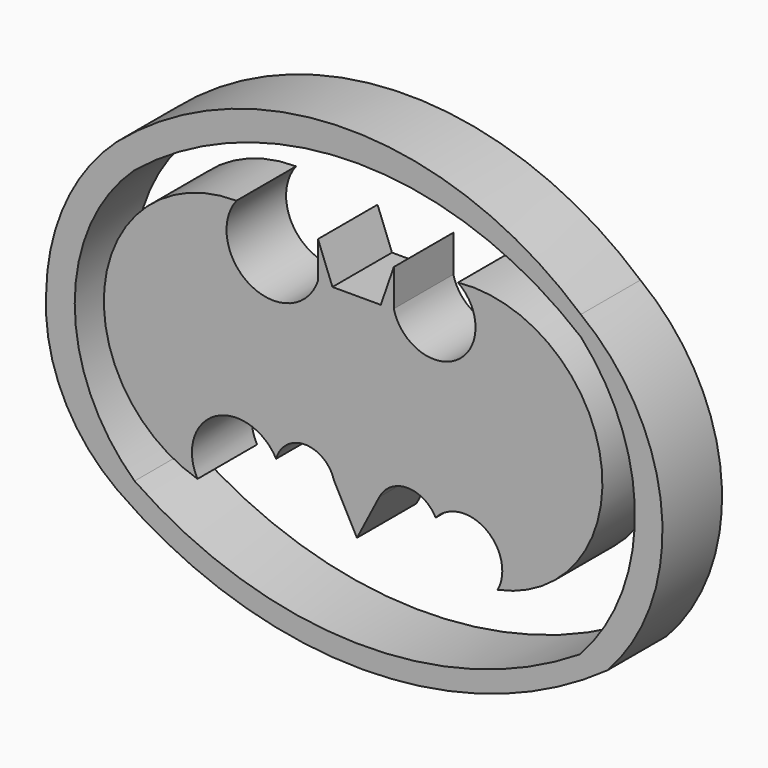
from build123d import *

# Parameters (mm, degrees)
F1_DEPTH = 25.4


with BuildPart() as f1:
    # F0 (on Front) → F1 (new body)
    with BuildSketch(Plane.XZ):
        with BuildLine():
            ThreePointArc((76.366656, 66.326715), (-2.771333, 96.122792), (-82.018934, 66.619486))
            ThreePointArc((-82.018934, 66.619486), (-99.526069, 42.537665), (-106.025629, 13.482723))
            ThreePointArc((-106.025629, 13.482723), (-100.55177, -15.129278), (-82.018934, -37.604682))
            ThreePointArc((-82.018934, -37.604682), (1.711711, -64.50179), (85.442357, -37.604682))
            ThreePointArc((85.442357, -37.604682), (103.971492, 16.375317), (76.366656, 66.326715))
        make_face()
        with BuildLine():
            ThreePointArc((-75.870886, -33.213213), (-96.290493, 13.482723), (-75.870886, 60.17866))
            ThreePointArc((-75.870886, 60.17866), (0.352022, 86.961837), (76.366656, 59.593134))
            ThreePointArc((76.366656, 59.593134), (94.835651, 11.815417), (76.073892, -35.848096))
            ThreePointArc((76.073892, -35.848096), (-0.293424, -57.304748), (-75.870886, -33.213213))
        make_face(mode=Mode.SUBTRACT)
        with BuildLine():
            Line((8.124091, 47.021262), (-8.370277, 47.021262))
            Line((-8.370277, 47.021262), (-13.293969, 59.822861))
            Line((-13.293969, 59.822861), (-13.293969, 47.267448))
            ThreePointArc((-13.293969, 47.267448), (-36.089482, 38.314973), (-41.112833, 62.284708))
            ThreePointArc((-41.112833, 62.284708), (-85.853336, 24.102798), (-54.406799, -25.603199))
            ThreePointArc((-54.406799, -25.603199), (-48.375276, -4.8006), (-27.572677, -10.832123))
            ThreePointArc((-27.572677, -10.832123), (-17.725292, -3.340109), (-7.877908, -10.832123))
            Line((-7.877908, -10.832123), (0, -25.603199))
            Line((0, -25.603199), (7.631723, -10.832123))
            ThreePointArc((7.631723, -10.832123), (17.232923, -4.985765), (26.834123, -10.832123))
            ThreePointArc((26.834123, -10.832123), (44.018369, -8.760086), (48.005998, -25.603199))
            ThreePointArc((48.005998, -25.603199), (83.219527, 24.808814), (34.465849, 62.284708))
            ThreePointArc((34.465849, 62.284708), (34.291586, 39.046487), (12.555416, 47.267448))
            Line((12.555416, 47.267448), (12.555416, 59.822861))
            Line((12.555416, 59.822861), (8.124091, 47.021262))
        make_face()
    extrude(amount=F1_DEPTH)


solid = f1.part
